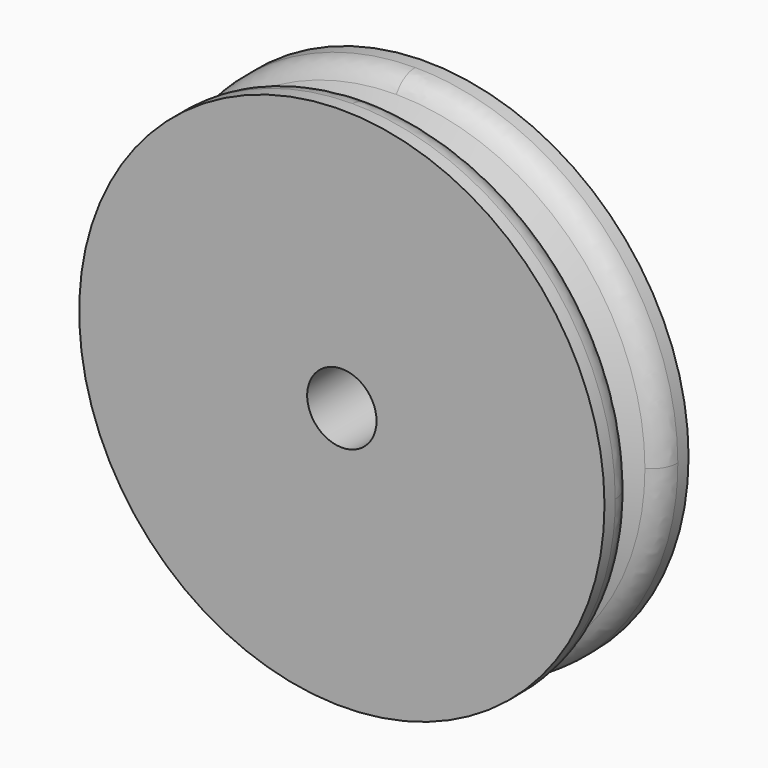
from build123d import *

# Parameters (mm, degrees)
F0_R     = 15.875
F1_DEPTH = 6.35
F2_R     = 2.0955
F3_DEPTH = 6.35
F7_R     = 1.5875


with BuildPart() as f1:
    # F0 (on Front) → F1 (new body)
    with BuildSketch(Plane.XZ):
        Circle(F0_R)
    extrude(amount=F1_DEPTH)

    # F2 (on face) → F3 (cut)
    with BuildSketch(Plane.XZ.offset(6.35)):
        Circle(F2_R)
    extrude(amount=-F3_DEPTH, mode=Mode.SUBTRACT)

    # F4 (on Right) → F6 (revolve, cut)
    with BuildSketch(Plane.YZ):
        with BuildLine():
            Line((-1.778, 15.875), (-4.572, 15.875))
            Line((-4.572, 15.875), (-3.397973, 13.598685))
            ThreePointArc((-3.397973, 13.598685), (-3.175, 13.462803), (-2.952027, 13.598685))
            Line((-2.952027, 13.598685), (-1.778, 15.875))
        make_face()
    revolve(axis=Axis((0, -3.17588, 0), (0, -1, 0)), mode=Mode.SUBTRACT)

    # F7
    f7_edges = [f1.edges().sort_by_distance(p)[0] for p in [
        (-11.22532, -4.572, -11.22532),
        (-11.22532, -1.778, -11.22532),
    ]]
    fillet(f7_edges, radius=F7_R)


solid = f1.part
